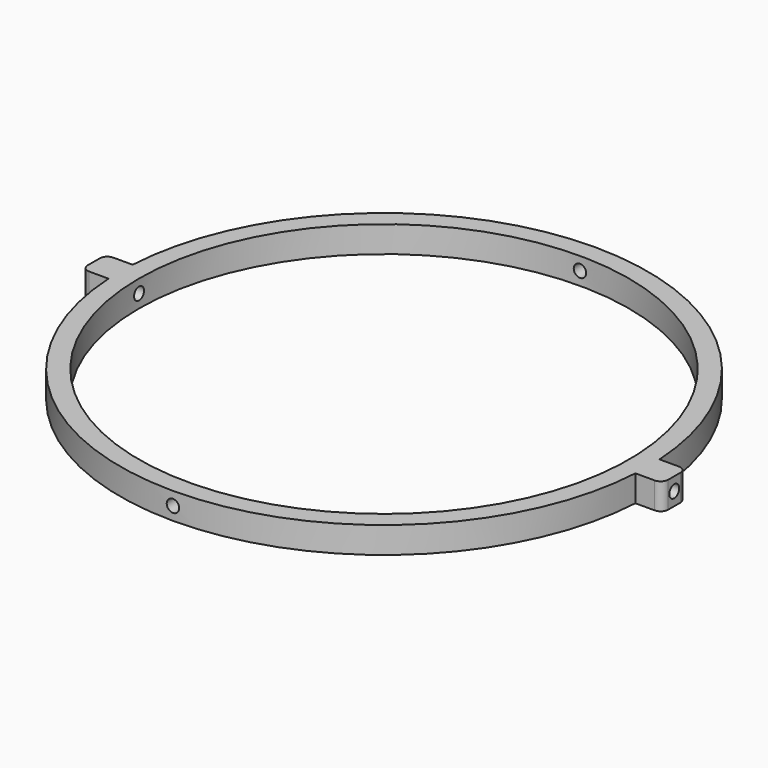
from build123d import *

# Parameters (mm, degrees)
SKETCH071_R          = 70
SKETCH071_R_2        = 65
SKETCH071_W          = 12
SKETCH071_H          = 8
PAD004_DEPTH         = 3.5
PAD005_DEPTH         = 3.5
SKETCH073_R          = 1.65
POCKET003_DEPTH      = 70.001
POCKET003_DEPTH_BACK = 70.001
SKETCH084_R          = 1.65
POCKET010_DEPTH      = 77.001
POCKET010_DEPTH_BACK = 77.001
FILLET002_R          = 2


with BuildPart() as part:
    # Sketch071 → Pad004 (new body, symmetric)
    with BuildSketch(Plane.XY):
        Circle(SKETCH071_R)
        Circle(SKETCH071_R_2, mode=Mode.SUBTRACT)
        with Locations((71, 0)):
            Rectangle(SKETCH071_W, SKETCH071_H)
        with Locations((-71, 0)):
            Rectangle(SKETCH071_W, SKETCH071_H)
    extrude(amount=PAD004_DEPTH, both=True)

    # Sketch071 → Pad005 (join, symmetric)
    with BuildSketch(Plane.XY):
        Circle(SKETCH071_R)
        Circle(SKETCH071_R_2, mode=Mode.SUBTRACT)
        with Locations((71, 0)):
            Rectangle(SKETCH071_W, SKETCH071_H)
        with Locations((-71, 0)):
            Rectangle(SKETCH071_W, SKETCH071_H)
    extrude(amount=PAD005_DEPTH, both=True)

    # Sketch073 → Pocket003 (cut, two sides)
    with BuildSketch(Plane.XZ) as pocket003_sk:
        Circle(SKETCH073_R)
    extrude(amount=-POCKET003_DEPTH, mode=Mode.SUBTRACT)
    extrude(pocket003_sk.sketch, amount=POCKET003_DEPTH_BACK, mode=Mode.SUBTRACT)

    # Sketch084 → Pocket010 (cut, two sides)
    with BuildSketch(Plane.YZ) as pocket010_sk:
        Circle(SKETCH084_R)
    extrude(amount=-POCKET010_DEPTH, mode=Mode.SUBTRACT)
    extrude(pocket010_sk.sketch, amount=POCKET010_DEPTH_BACK, mode=Mode.SUBTRACT)

    # Fillet002
    fillet002_edges = [part.edges().sort_by_distance(p)[0] for p in [
        (77, -4, 0),
        (77, 4, 0),
        (-77, -4, 0),
        (-77, 4, 0),
    ]]
    fillet(fillet002_edges, radius=FILLET002_R)


solid = part.part
